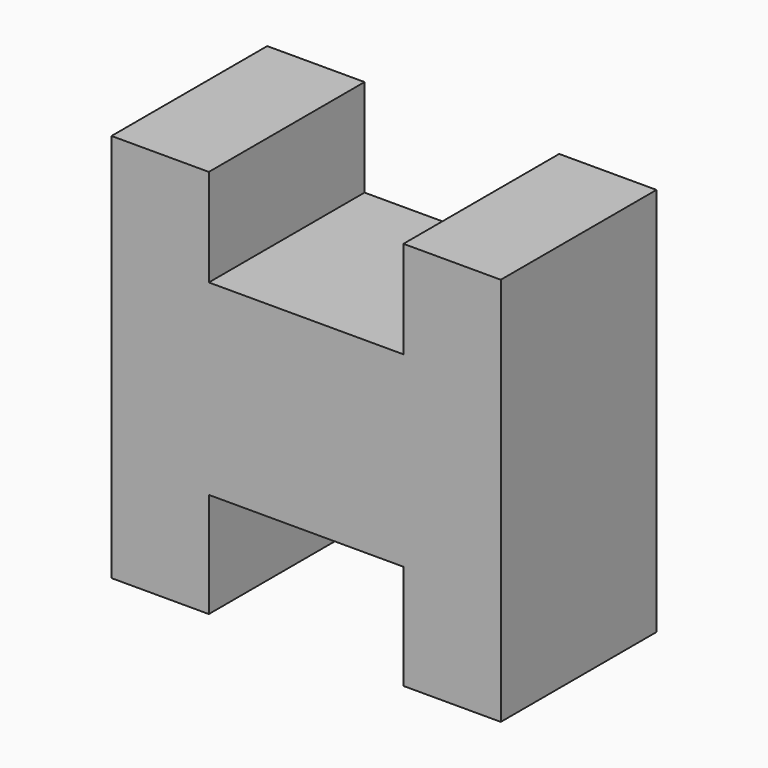
from build123d import *

# Parameters (mm, degrees)
F0_W     = 25.4
F0_H     = 25.4
F1_DEPTH = 25.4
F2_W     = 12.7
F2_H     = 6.35
F3_DEPTH = 25.4
F4_W     = 12.7
F4_H     = 6.84804
F5_DEPTH = 25.4
F6_DEPTH = 12.7


with BuildPart() as f1:
    # F0 (on Top) → F1 (new body)
    with BuildSketch(Plane.XY):
        Rectangle(F0_W, F0_H)
    extrude(amount=F1_DEPTH)

    # F2 (on face) → F3 (cut)
    with BuildSketch(Plane.XZ.offset(12.7)):
        with Locations((0, 22.225)):
            Rectangle(F2_W, F2_H)
    extrude(amount=-F3_DEPTH, mode=Mode.SUBTRACT)

    # F4 (on face) → F5 (cut)
    with BuildSketch(Plane.XZ.offset(12.7)):
        with Locations((0, 3.42402)):
            Rectangle(F4_W, F4_H)
    extrude(amount=-F5_DEPTH, mode=Mode.SUBTRACT)

    # F1_face (on face) → F6 (cut)
    with BuildSketch(Plane(origin=(0, -12.7, 12.7), x_dir=(1, 0, 0), z_dir=(0, -1, 0))):
        Polygon((-12.7, -12.7), (-6.35, -12.7), (-6.35, -5.85196), (6.35, -5.85196), (6.35, -12.7), (12.7, -12.7), (12.7, 12.7), (6.35, 12.7), (6.35, 6.35), (-6.35, 6.35), (-6.35, 12.7), (-12.7, 12.7), align=None)
    extrude(amount=-F6_DEPTH, mode=Mode.SUBTRACT)


solid = f1.part
